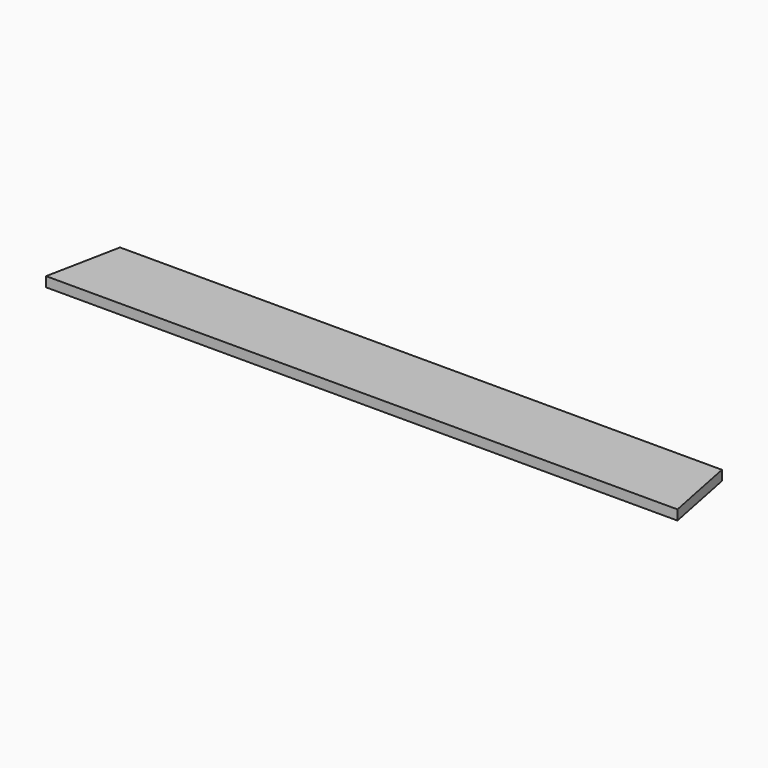
from build123d import *

# Parameters (mm, degrees)
F1_DEPTH = 38.1


with BuildPart() as f1:
    # F0 (on Top) → F1 (new body)
    with BuildSketch(Plane.XY):
        Polygon((1162.360791, 142.875), (-1162.360791, 142.875), (-1219.2, -142.875), (1219.2, -142.875), align=None)
    extrude(amount=-F1_DEPTH)


solid = f1.part
